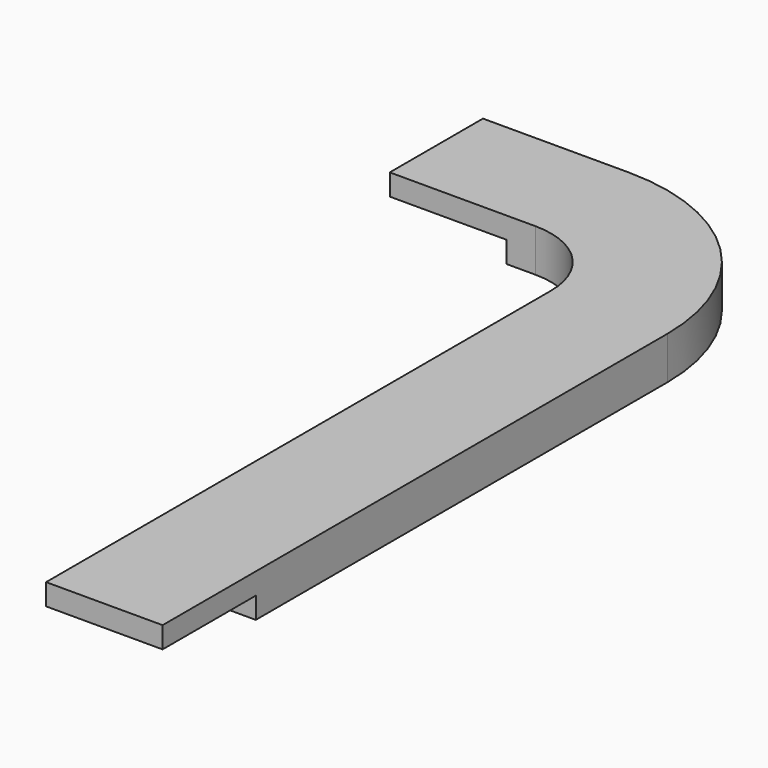
from build123d import *

# Parameters (mm, degrees)
F1_DEPTH = 44
F2_W     = 120
F2_H     = 120
F3_DEPTH = 22
F4_W     = 120
F4_H     = 120
F5_DEPTH = 22


with BuildPart() as f1:
    # F0 (on Top) → F1 (new body)
    with BuildSketch(Plane.XY):
        with BuildLine():
            Line((-120, 0), (0, 0))
            Line((0, 0), (0, 650))
            ThreePointArc((0, 650), (-58.578644, 791.421356), (-200, 850))
            Line((-200, 850), (-350, 850))
            Line((-350, 850), (-350, 730))
            Line((-350, 730), (-200, 730))
            ThreePointArc((-200, 730), (-143.431458, 706.568542), (-120, 650))
            Line((-120, 650), (-120, 0))
        make_face()
    extrude(amount=F1_DEPTH)

    # F2 (on face) → F3 (cut)
    with BuildSketch(Plane(origin=(0, 0, 0), x_dir=(1, 0, 0), z_dir=(0, 0, -1))):
        with Locations((-60, -60)):
            Rectangle(F2_W, F2_H)
    extrude(amount=-F3_DEPTH, mode=Mode.SUBTRACT)

    # F4 (on face) → F5 (cut)
    with BuildSketch(Plane(origin=(0, 0, 0), x_dir=(1, 0, 0), z_dir=(0, 0, -1))):
        with Locations((-290, -790)):
            Rectangle(F4_W, F4_H)
    extrude(amount=-F5_DEPTH, mode=Mode.SUBTRACT)


solid = f1.part
